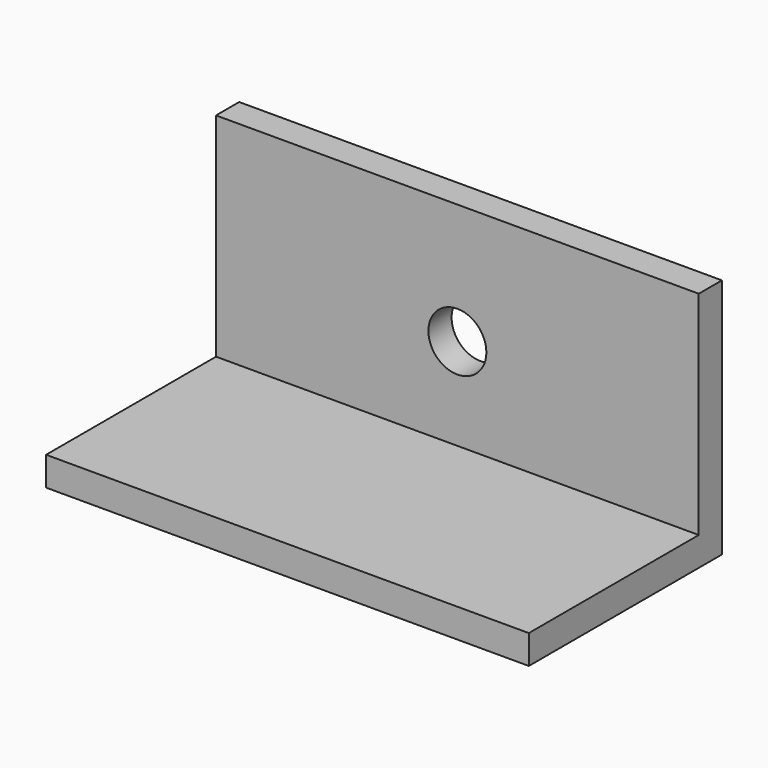
from build123d import *

# Parameters (mm, degrees)
PAD_DEPTH                  = 100
SKETCH001_R                = 6
POCKET_DEPTH               = 50.001
POCKETBODY_PITCH_ANGLE     = -90
POCKETBODY_PLACEMENT_ANGLE = -180


with BuildPart() as part:
    # Sketch → Pad (new body)
    with BuildSketch(Plane.XY):
        Polygon((0, 0), (0, 50), (6, 50), (6, 6), (50, 6), (50, 0), align=None)
    extrude(amount=PAD_DEPTH)

    # Sketch001 (on Face6 of Pad) → Pocket (cut, through all)
    with BuildSketch(Plane.XZ):
        with Locations((25, 50)):
            Circle(SKETCH001_R)
    extrude(amount=-POCKET_DEPTH, mode=Mode.SUBTRACT)


with BuildPart() as part_1:
    # PocketBody pitch: moved
    add(part.part.rotate(Axis((0, 0, 0), (0, 1, 0)), POCKETBODY_PITCH_ANGLE))


with BuildPart() as part_2:
    # PocketBody placement: moved
    add(part_1.part.moved(Location((-50, 50, 0))).rotate(Axis((-50, 50, 0), (0, 0, 1)), POCKETBODY_PLACEMENT_ANGLE))


solid = part_2.part
